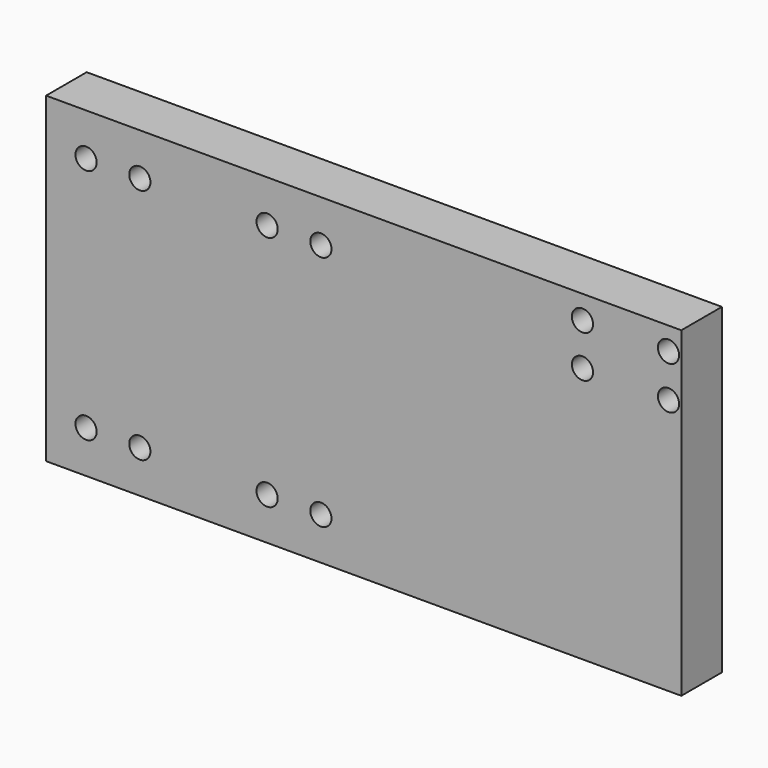
from build123d import *

# Parameters (mm, degrees)
F0_W     = 150.0124
F0_H     = 75.9968
F0_R     = 2.5019
F1_DEPTH = 11.9888


with BuildPart() as f1:
    # F0 (on Front) → F1 (new body)
    with BuildSketch(Plane.XZ):
        Rectangle(F0_W, F0_H)
        with Locations((-65.567933, -27.9908)):
            Circle(F0_R, mode=Mode.SUBTRACT)
        with Locations((-52.867933, -27.9908)):
            Circle(F0_R, mode=Mode.SUBTRACT)
        with Locations((-22.808934, -27.9908)):
            Circle(F0_R, mode=Mode.SUBTRACT)
        with Locations((-10.108934, -27.9908)):
            Circle(F0_R, mode=Mode.SUBTRACT)
        with Locations((-65.567933, 27.9908)):
            Circle(F0_R, mode=Mode.SUBTRACT)
        with Locations((-52.867933, 27.9908)):
            Circle(F0_R, mode=Mode.SUBTRACT)
        with Locations((-22.808934, 27.9908)):
            Circle(F0_R, mode=Mode.SUBTRACT)
        with Locations((-10.108934, 27.9908)):
            Circle(F0_R, mode=Mode.SUBTRACT)
        with Locations((51.660687, 22.5044)):
            Circle(F0_R, mode=Mode.SUBTRACT)
        with Locations((71.980687, 22.5044)):
            Circle(F0_R, mode=Mode.SUBTRACT)
        with Locations((51.660687, 32.448623)):
            Circle(F0_R, mode=Mode.SUBTRACT)
        with Locations((71.980687, 32.623451)):
            Circle(F0_R, mode=Mode.SUBTRACT)
    extrude(amount=F1_DEPTH)


solid = f1.part
